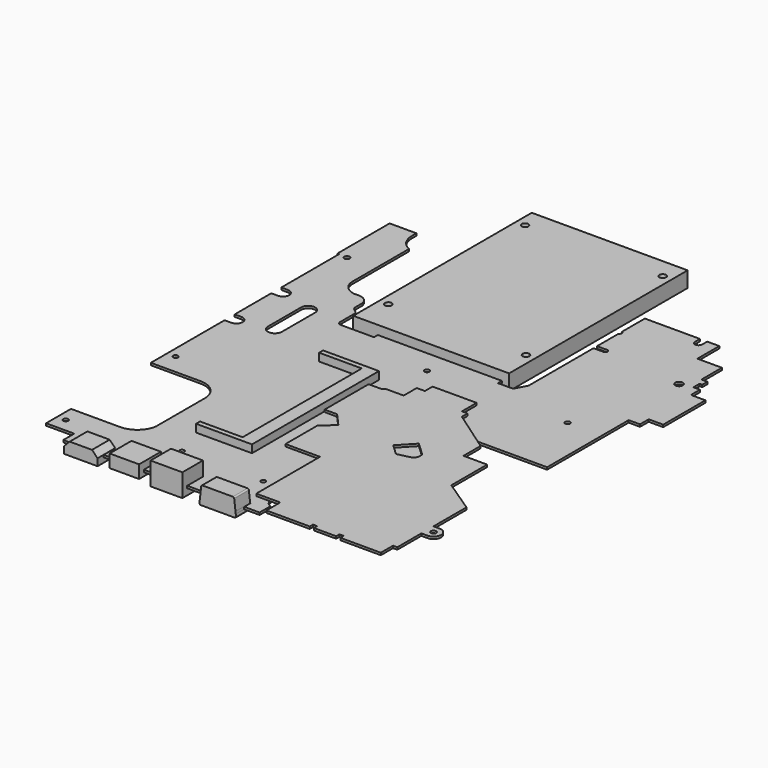
from build123d import *

# Parameters (mm, degrees)
F0_R      = 1.1
F0_R_2    = 1
F0_R_3    = 1.2
F0_R_4    = 1.7
F1_DEPTH  = 1
F2_W      = 13.4458094835
F2_H      = 13.4458094835
F3_DEPTH  = 1
F4_R      = 1.1795982173
F4_W      = 13.4458094835
F4_H      = 13.4458094835
F5_DEPTH  = 1
F7_DEPTH  = 3.5
F9_DEPTH  = 8.2
F10_W     = 14.3
F10_H     = 1
F11_DEPTH = 11.5
F12_W     = 13.2
F12_H     = 1
F13_DEPTH = 12.25
F14_W     = 15
F14_H     = 1
F15_DEPTH = 9.9
F16_W     = 55.6
F16_H     = 1
F17_DEPTH = 100
F18_R     = 1.5
F19_DEPTH = 4


with BuildPart() as f1:
    # F0 (on Top) → F1 (new body)
    with BuildSketch(Plane.XY):
        with BuildLine():
            Line((160.6249064207, 176.9699346185), (161.8094295263, 176.9699346185))
            Line((161.8094295263, 176.9699346185), (161.8094295263, 179.8534210682))
            Line((161.8094295263, 179.8534210682), (159.1501384974, 179.8534210682))
            Line((159.1501384974, 179.8534210682), (159.1501384974, 191.3386698723))
            Line((159.1501384974, 191.3386698723), (148.1758207083, 191.3386698723))
            Line((148.1758207083, 191.3386698723), (148.1758207083, 203.6008875728))
            Line((148.1758207083, 203.6008875728), (142.7357643843, 203.6008875728))
            Line((142.7357643843, 203.6008875728), (142.7357643843, 200.7709931493))
            ThreePointArc((142.7357643843, 200.7709931493), (141.1344707012, 199.1696994662), (139.5331770182, 200.7709931493))
            Line((139.5331770182, 200.7709931493), (139.5331770182, 203.6008875728))
            Line((139.5331770182, 203.6008875728), (114.806547761, 203.6008875728))
            Line((114.806547761, 203.6008875728), (114.806547761, 190.8820014358))
            ThreePointArc((114.806547761, 190.8820014358), (115.543161594, 189.8738000453), (114.806547761, 188.8655986547))
            Line((114.806547761, 188.8655986547), (114.806547761, 176.8137257457))
            Line((114.806547761, 176.8137257457), (119.3519085646, 176.8137257457))
            ThreePointArc((119.3519085646, 176.8137257457), (120.347969234, 175.8176650763), (119.3519085646, 174.8216044068))
            Line((119.3519085646, 174.8216044068), (114.806547761, 174.8216044068))
            Line((114.806547761, 174.8216044068), (114.806547761, 138.5313015342))
            Line((114.806547761, 138.5313015342), (111.9908541441, 133.2528371274))
            Line((111.9908541441, 133.2528371274), (105.2162262678, 133.2528371274))
            Line((105.2162262678, 133.2528371274), (105.2162262678, 135.4777034283))
            Line((105.2162262678, 135.4777034283), (49.6162262678, 135.4777034283))
            Line((49.6162262678, 135.4777034283), (49.6162262678, 133.3386491895))
            Line((49.6162262678, 133.3386491895), (34.9377691746, 133.3386491895))
            ThreePointArc((34.9377691746, 133.3386491895), (33.6976901484, 133.7209916083), (33.1639200449, 134.9038150072))
            Line((33.1639200449, 134.9038150072), (33.1639200449, 142.7296142936))
            ThreePointArc((33.1639200449, 142.7296142936), (32.984593279, 143.6222268538), (32.4335098267, 144.3469490767))
            Line((32.4335098267, 144.3469490767), (31.4944088459, 145.1295282602))
            ThreePointArc((31.4944088459, 145.1295282602), (30.6542659204, 145.9666544379), (30.3466171026, 147.1120681524))
            Line((30.3466171026, 147.1120681524), (30.3466171026, 150.8209299207))
            ThreePointArc((30.3466171026, 150.8209299207), (28.800736903, 153.6179466193), (25.8045494556, 154.729660964))
            Line((25.8045494556, 154.729660964), (23.570984602, 154.729660964))
            ThreePointArc((23.570984602, 154.729660964), (19.1675357698, 156.9924577452), (17.3986256123, 161.6164784789))
            Line((17.3986256123, 161.6164784789), (17.3986256123, 193.2777207255))
            ThreePointArc((17.3986256123, 193.2777207255), (13.4788078086, 196.5879188441), (12.0125114918, 201.5044581056))
            Line((12.0125114918, 201.5044581056), (12.0125114918, 204.1237395167))
            Line((12.0125114918, 204.1237395167), (0, 204.1237395167))
            Line((0, 204.1237395167), (0, 175.0349294305))
            Line((0, 175.0349294305), (0.7430016994, 175.0349294305))
            Line((0.7430016994, 175.0349294305), (0.7430016994, 142.5138529301))
            Line((0.7430016994, 142.5138529301), (3.7440061569, 142.5138529301))
            ThreePointArc((3.7440061569, 142.5138529301), (6.5507180989, 139.7071409881), (3.7440061569, 136.9004290462))
            Line((3.7440061569, 136.9004290462), (0.7430016994, 136.9004290462))
            Line((0.7430016994, 136.9004290462), (0.7430016994, 116.3968186736))
            Line((0.7430016994, 116.3968186736), (3.7440061569, 116.3968186736))
            ThreePointArc((3.7440061569, 116.3968186736), (6.5873805434, 113.5534442872), (3.7440061569, 110.7100699008))
            Line((3.7440061569, 110.7100699008), (0.7430016994, 110.7100699008))
            Line((0.7430016994, 110.7100699008), (0.7430016994, 69.4229165236))
            Line((0.7430016994, 69.4229165236), (22.8326767683, 69.4229165236))
            ThreePointArc((22.8326767683, 69.4229165236), (29.500763065, 66.8386056871), (32.2879552841, 60.2527422741))
            Line((32.2879552841, 60.2527422741), (32.2879552841, 32.8102562487))
            ThreePointArc((32.2879552841, 32.8102562487), (29.0614178388, 27.0048996615), (22.8326767683, 24.6993642211))
            Line((22.8326767683, 24.6993642211), (0.7430016994, 24.6993642211))
            Line((0.7430016994, 24.6993642211), (0.7430016994, 10.748301065))
            Line((0.7430016994, 10.748301065), (13.3770555258, 10.748301065))
            Line((13.3770555258, 10.748301065), (13.3770555258, 4.6))
            Line((13.3770555258, 4.6), (16.4625120401, 4.6))
            Line((16.4625120401, 4.6), (16.4625120401, 11.1))
            Line((16.4625120401, 11.1), (31.4625120401, 11.1))
            Line((31.4625120401, 11.1), (31.4625120401, 4.6))
            Line((31.4625120401, 4.6), (36.2625120401, 4.6))
            Line((36.2625120401, 4.6), (36.2625120401, 14.2))
            Line((36.2625120401, 14.2), (49.4625120401, 14.2))
            Line((49.4625120401, 14.2), (49.4625120401, 4.6))
            Line((49.4625120401, 4.6), (54.6125120401, 4.6))
            Line((54.6125120401, 4.6), (54.6125120401, 13.4))
            Line((54.6125120401, 13.4), (68.9125120401, 13.4))
            Line((68.9125120401, 13.4), (68.9125120401, 4.6))
            Line((68.9125120401, 4.6), (78.0625120401, 4.6))
            Line((78.0625120401, 4.6), (78.0625120401, 8.2))
            Line((78.0625120401, 8.2), (94.4625120401, 8.2))
            Line((94.4625120401, 8.2), (94.4625120401, 4.6))
            Line((94.4625120401, 4.6), (101.3442724943, 4.6))
            Line((101.3442724943, 4.6), (101.3442724943, 10.630831486))
            ThreePointArc((101.3442724943, 10.630831486), (98.56086812, 14.7458560675), (101.3442724943, 18.8608806491))
            Line((101.3442724943, 18.8608806491), (101.3442724943, 35.0293036461))
            Line((101.3442724943, 35.0293036461), (98.6528247595, 35.0293036461))
            Line((98.6528247595, 35.0293036461), (98.6528247595, 48.3222998589))
            ThreePointArc((98.6528247595, 48.3222998589), (99.7437661167, 51.2526448724), (102.6178896427, 52.4841029108))
            Line((102.6178896427, 52.4841029108), (104.5482307673, 52.4841029108))
            ThreePointArc((104.5482307673, 52.4841029108), (112.0927885245, 60.1554450425), (122.0365464687, 64.2653744578))
            Line((122.0365464687, 64.2653744578), (122.0365464687, 94.2435081959))
            Line((122.0365464687, 94.2435081959), (158.4815829992, 94.2435081959))
            Line((158.4815829992, 94.2435081959), (158.4815829992, 139.9447437286))
            Line((158.4815829992, 139.9447437286), (163.5642796755, 139.9447437286))
            Line((163.5642796755, 139.9447437286), (163.5642796755, 144.8143836021))
            Line((163.5642796755, 144.8143836021), (170.0572222471, 144.8143836021))
            Line((170.0572222471, 144.8143836021), (170.0572222471, 168.4589054346))
            Line((170.0572222471, 168.4589054346), (163.5642796755, 168.4589054346))
            Line((163.5642796755, 168.4589054346), (163.5642796755, 173.5479723573))
            Line((163.5642796755, 173.5479723573), (160.6249064207, 173.5479723573))
            Line((160.6249064207, 173.5479723573), (160.6249064207, 176.9699346185))
        make_face()
        with Locations((4.5625120401, 17.0223977327)):
            Circle(F0_R, mode=Mode.SUBTRACT)
        with Locations((51.0625120401, 23.9223977327)):
            Circle(F0_R, mode=Mode.SUBTRACT)
        with Locations((4.5625120401, 78.5223977327)):
            Circle(F0_R, mode=Mode.SUBTRACT)
        with Locations((87.5625120401, 23.9223977327)):
            Circle(F0_R_2, mode=Mode.SUBTRACT)
        with BuildLine():
            Line((21.8935012817, 135.0387822747), (21.8935012817, 116.4373647332))
            ThreePointArc((21.8935012817, 116.4373647332), (18.734768033, 113.2786314845), (15.5760347843, 116.4373647332))
            Line((15.5760347843, 116.4373647332), (15.5760347843, 135.0387822747))
            ThreePointArc((15.5760347843, 135.0387822747), (18.734768033, 138.1975155234), (21.8935012817, 135.0387822747))
        make_face(mode=Mode.SUBTRACT)
        with Locations((80.0625120401, 125.0223977327)):
            Circle(F0_R, mode=Mode.SUBTRACT)
        with Locations((4.5625120401, 174.5223977327)):
            Circle(F0_R_3, mode=Mode.SUBTRACT)
        with Locations((143.0625120401, 125.0223977327)):
            Circle(F0_R, mode=Mode.SUBTRACT)
        with Locations((155.1625120401, 172.3223977327)):
            Circle(F0_R_4, mode=Mode.SUBTRACT)
    extrude(amount=F1_DEPTH)

    # F2 (on face) → F3 (join)
    with BuildSketch(Plane.XY.offset(1)):
        with Locations((97.3900610669, 88.4269856148)):
            Rectangle(F2_W, F2_H)
    extrude(amount=F3_DEPTH)

    # F4 (on face) → F5 (join)
    with BuildSketch(Plane.XY.offset(2)):
        with BuildLine():
            Line((104.6295443637, 12.0559156173), (104.6295443637, 4.2993024223))
            Line((104.6295443637, 4.2993024223), (124.0682432516, 4.2993024223))
            Line((124.0682432516, 4.2993024223), (124.0682432516, 6.1310202115))
            Line((124.0682432516, 6.1310202115), (125.9230801923, 6.1310202115))
            Line((125.9230801923, 6.1310202115), (125.9230801923, 4.2993024223))
            Line((125.9230801923, 4.2993024223), (135.9007487161, 4.2993024223))
            Line((135.9007487161, 4.2993024223), (135.9007487161, 6.1310202115))
            Line((135.9007487161, 6.1310202115), (137.7555856569, 6.1310202115))
            Line((137.7555856569, 6.1310202115), (137.7555856569, 4.2993024223))
            Line((137.7555856569, 4.2993024223), (155.9113988741, 4.2993024223))
            Line((155.9113988741, 4.2993024223), (155.9113988741, 11.1462891333))
            Line((155.9113988741, 11.1462891333), (157.8301617963, 11.1462891333))
            Line((157.8301617963, 11.1462891333), (157.8301617963, 24.6224224799))
            Line((157.8301617963, 24.6224224799), (160.5625120401, 24.6224224799))
            ThreePointArc((160.5625120401, 24.6224224799), (163.962487293, 28.0223977327), (160.5625120401, 31.4223729856))
            Line((160.5625120401, 31.4223729856), (157.8301617963, 31.4223729856))
            Line((157.8301617963, 31.4223729856), (157.8301617963, 49.9056920641))
            Line((157.8301617963, 49.9056920641), (143.2474086149, 59.6275225513))
            Line((143.2474086149, 59.6275225513), (143.2474086149, 79.7107786172))
            Line((143.2474086149, 79.7107786172), (132.6301524503, 79.7107786172))
            Line((132.6301524503, 79.7107786172), (132.6301524503, 89.3046882235))
            Line((132.6301524503, 89.3046882235), (113.6981675489, 102.4803284787))
            Line((113.6981675489, 102.4803284787), (113.6981675489, 105.6782974162))
            Line((113.6981675489, 105.6782974162), (111.1553141935, 105.6782974162))
            Line((111.1553141935, 105.6782974162), (111.1553141935, 113.9287245284))
            Line((111.1553141935, 113.9287245284), (91.4128700359, 113.9287245284))
            Line((91.4128700359, 113.9287245284), (91.4128700359, 109.6187171758))
            Line((91.4128700359, 109.6187171758), (87.7556184394, 109.6187171758))
            Line((87.7556184394, 109.6187171758), (87.7556184394, 102.3041948908))
            Line((87.7556184394, 102.3041948908), (80.0108293159, 102.3041948908))
            Line((80.0108293159, 102.3041948908), (78.2897600992, 101.336098113))
            Line((78.2897600992, 101.336098113), (72.8038678033, 101.336098113))
            Line((72.8038678033, 101.336098113), (72.8038678033, 76.703374111))
            Line((72.8038678033, 76.703374111), (78.3973315818, 76.703374111))
            Line((78.3973315818, 76.703374111), (83.8832089765, 70.5720827215))
            Line((83.8832089765, 70.5720827215), (78.3973315818, 65.6636794378))
            Line((78.3973315818, 65.6636794378), (78.3973315818, 47.7679938309))
            Line((78.3973315818, 47.7679938309), (93.8868949277, 47.7679938309))
            Line((93.8868949277, 47.7679938309), (93.8868949277, 12.0559156173))
            Line((93.8868949277, 12.0559156173), (104.6295443637, 12.0559156173))
        make_face()
        with Locations((160.5625120401, 28.0223977327)):
            Circle(F4_R, mode=Mode.SUBTRACT)
        with BuildLine():
            Line((113.309083329, 66.0162911051), (108.4371357694, 70.6016476228))
            Line((108.4371357694, 70.6016476228), (114.6500445904, 77.2028717265))
            Line((114.6500445904, 77.2028717265), (120.7929474504, 71.4213235217))
            Line((120.7929474504, 71.4213235217), (120.7929474504, 69.8479345364))
            ThreePointArc((120.7929474504, 69.8479345364), (120.2327234693, 68.2356957846), (118.7934753022, 67.3182376575))
            Line((118.7934753022, 67.3182376575), (113.309083329, 66.0162911051))
        make_face(mode=Mode.SUBTRACT)
        with Locations((97.3900610669, 88.4269856148)):
            Rectangle(F4_W, F4_H, mode=Mode.SUBTRACT)
        with Locations((97.3900610669, 88.4269856148)):
            Rectangle(F4_W, F4_H)
    extrude(amount=F5_DEPTH)

    # F6 (on face) → F7 (join)
    with BuildSketch(Plane.XY.offset(1)):
        Polygon((65.2739944024, 106.9402162217), (65.2739944024, 40.187020623), (46.1624616845, 40.187020623), (46.1624616845, 37.9923962288), (71.2177733047, 37.9923962288), (71.2177733047, 109.1348406159), (46.1624616845, 109.1348406159), (46.1624616845, 106.9402162217), align=None)
    extrude(amount=F7_DEPTH)

    # F8 (on face) → F9 (join)
    with BuildSketch(Plane.XZ.offset(-8.2)):
        with BuildLine():
            Line((78.6625120401, -1.6), (86.2625120401, -1.6))
            Line((86.2625120401, -1.6), (93.8625120401, -1.6))
            ThreePointArc((93.8625120401, -1.6), (94.3108773204, -1.3987086348), (94.4584024027, -0.9298952515))
            Line((94.4584024027, -0.9298952515), (94.3490029614, 0))
            Line((94.3490029614, 0), (78.1760211189, 0))
            Line((78.1760211189, 0), (78.0666216775, -0.9298952515))
            ThreePointArc((78.0666216775, -0.9298952515), (78.2141467599, -1.3987086348), (78.6625120401, -1.6))
        make_face()
        Polygon((78.1760211189, 0), (94.3490029614, 0), (94.2313559026, 1), (78.2936681777, 1), align=None)
        with BuildLine():
            Line((78.2936681777, 1), (94.2313559026, 1))
            Line((94.2313559026, 1), (93.6584024027, 5.8701047485))
            ThreePointArc((93.6584024027, 5.8701047485), (93.4612206749, 6.2483652803), (93.0625120401, 6.4))
            Line((93.0625120401, 6.4), (86.2625120401, 6.4))
            Line((86.2625120401, 6.4), (79.4625120401, 6.4))
            ThreePointArc((79.4625120401, 6.4), (79.0638034054, 6.2483652803), (78.8666216775, 5.8701047485))
            Line((78.8666216775, 5.8701047485), (78.2936681777, 1))
        make_face()
    extrude(amount=F9_DEPTH)

    # F10 (on face) → F11 (join)
    with BuildSketch(Plane.XZ.offset(-13.4)):
        Polygon((54.6125120401, 1), (68.9125120401, 1), (68.9125120401, 7.4), (61.7625120401, 7.4), (54.6125120401, 7.4), align=None)
        with Locations((61.7625120401, 0.5)):
            Rectangle(F10_W, F10_H)
        Polygon((54.6125120401, -2.8), (61.7625120401, -2.8), (68.9125120401, -2.8), (68.9125120401, 0), (54.6125120401, 0), align=None)
    extrude(amount=F11_DEPTH)

    # F12 (on face) → F13 (join)
    with BuildSketch(Plane.XZ.offset(-14.2)):
        Polygon((36.2625120401, 1), (49.4625120401, 1), (49.4625120401, 4.2), (42.8625120401, 4.2), (36.2625120401, 4.2), align=None)
        with Locations((42.8625120401, 0.5)):
            Rectangle(F12_W, F12_H)
        Polygon((36.2625120401, -1.6), (42.8625120401, -1.6), (49.4625120401, -1.6), (49.4625120401, 0), (36.2625120401, 0), align=None)
    extrude(amount=F13_DEPTH)

    # F14 (on face) → F15 (join)
    with BuildSketch(Plane.XZ.offset(-11.1)):
        Polygon((16.4625120401, 1), (31.4625120401, 1), (31.4625120401, 1.05), (28.9625120401, 3.55), (23.9625120401, 3.55), (18.9625120401, 3.55), (16.4625120401, 1.05), align=None)
        with Locations((23.9625120401, 0.5)):
            Rectangle(F14_W, F14_H)
        Polygon((16.4625120401, -2.1), (23.9625120401, -2.1), (31.4625120401, -2.1), (31.4625120401, 0), (16.4625120401, 0), align=None)
    extrude(amount=F15_DEPTH)

    # F16 (on face) → F17 (join)
    with BuildSketch(Plane(origin=(0, 135.4777034283, 0), x_dir=(-1, 0, 0), z_dir=(0, 1, 0))):
        Polygon((-108.4662262678, -2), (-73.5412262678, -2), (-38.6162262678, -2), (-38.6162262678, 5), (-73.5412262678, 5), (-108.4662262678, 5), align=None)
        with Locations((-77.4162262678, 0.5)):
            Rectangle(F16_W, F16_H, mode=Mode.SUBTRACT)
        with Locations((-77.4162262678, 0.5)):
            Rectangle(F16_W, F16_H)
    extrude(amount=F17_DEPTH)

    # F18 (on face) → F19 (cut)
    with BuildSketch(Plane.XY.offset(5)):
        with Locations((104.4012246442, 150.0223977327)):
            Circle(F18_R)
        with Locations((42.6912246442, 150.0223977327)):
            Circle(F18_R)
        with Locations((42.6912246442, 226.6223977327)):
            Circle(F18_R)
        with Locations((104.4012246442, 226.6223977327)):
            Circle(F18_R)
    extrude(amount=-F19_DEPTH, mode=Mode.SUBTRACT)


solid = f1.part
